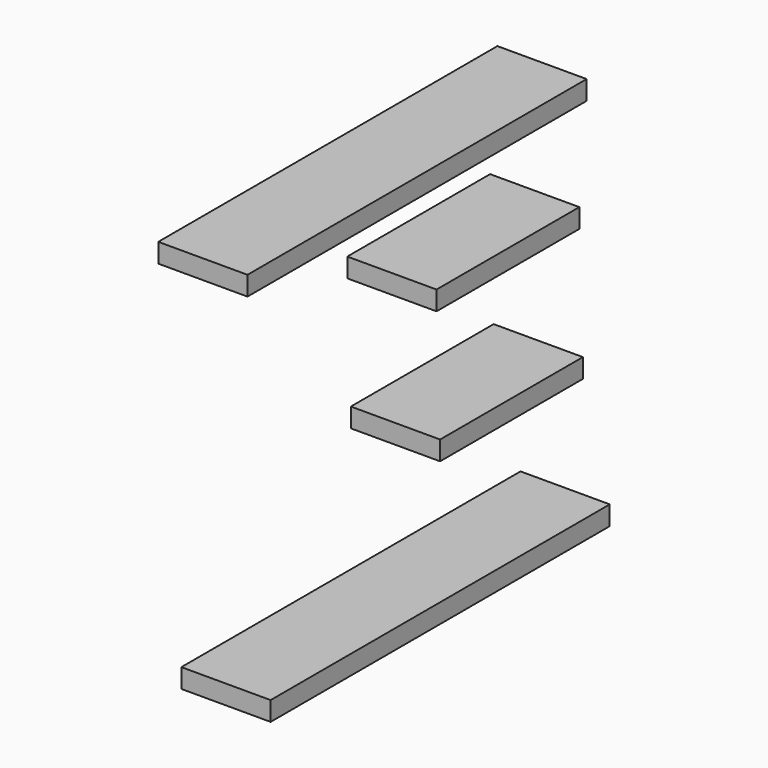
from build123d import *

# Parameters (mm, degrees)
F0_W     = 487.426
F0_H     = 22.098
F0_W_2   = 205.232
F1_DEPTH = 102.616


with BuildPart() as f1:
    # F0 (on Right) → F1 (new body)
    with BuildSketch(Plane.YZ):
        with Locations((-372.639737, 31.350956)):
            Rectangle(F0_W, F0_H)
        with Locations((-242.043304, -93.998613)):
            Rectangle(F0_W_2, F0_H)
        with Locations((-236.927241, -247.901017)):
            Rectangle(F0_W_2, F0_H)
        with Locations((-339.415094, -412.657811)):
            Rectangle(F0_W, F0_H)
    extrude(amount=F1_DEPTH)


solid = f1.part
